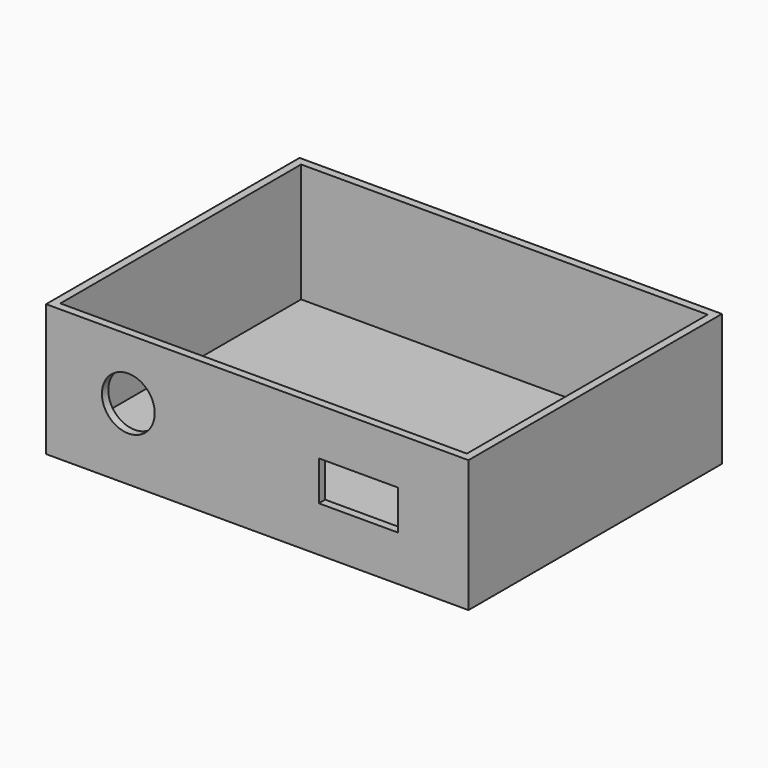
from build123d import *

# Parameters (mm, degrees)
F0_W     = 101.6
F0_H     = 76.2
F0_W_2   = 97.79
F0_H_2   = 72.39
F1_DEPTH = 31.75
F3_D     = 12.7
F3_DEPTH = 12.7
F4_DEPTH = 3.175
F2_W     = 19.05
F2_H     = 9.525
F5_DEPTH = 1.905


with BuildPart() as f1:
    # F0 (on Top) → F1 (new body)
    with BuildSketch(Plane.XY):
        Rectangle(F0_W, F0_H)
        Rectangle(F0_W_2, F0_H_2, mode=Mode.SUBTRACT)
    extrude(amount=F1_DEPTH)

    # F3
    with Locations(Plane.XZ.offset(38.1)):
        with Locations((-31.0187, 17.151518)):
            Hole(F3_D / 2, depth=F3_DEPTH)

    # F2 (on face) → F5 (cut, through all)
    with BuildSketch(Plane.XZ.offset(38.1)):
        with Locations((24.336567, 15.675096)):
            Rectangle(F2_W, F2_H)
    extrude(amount=-F5_DEPTH, mode=Mode.SUBTRACT)


with BuildPart() as f4:
    # F0 (on Top) → F4 (new body)
    with BuildSketch(Plane.XY):
        Rectangle(F0_W_2, F0_H_2)
    extrude(amount=F4_DEPTH)


solid = Compound([f1.part, f4.part])
